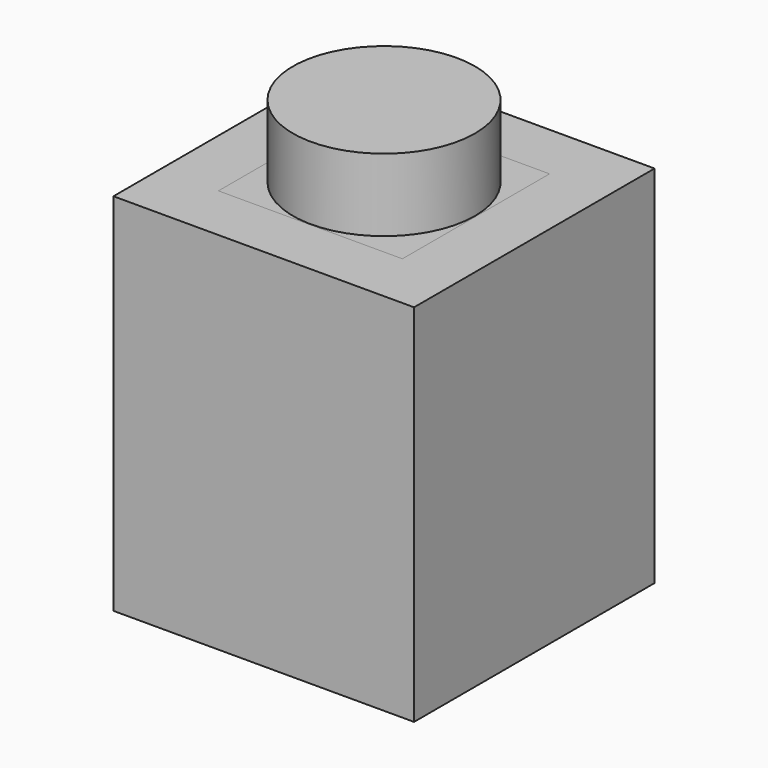
from build123d import *

# Parameters (mm, degrees)
F0_W     = 7.8867
F0_H     = 7.8867
F0_W_2   = 4.826
F0_H_2   = 4.826
F1_DEPTH = 9.5758
F2_START = 8.3058
F0_R     = 2.3876
F2_DEPTH = 1.27
F3_START = 8.3058
F3_DEPTH = 3.175


with BuildPart() as f1:
    # F0 (on Top) → F1 (new body)
    with BuildSketch(Plane.XY):
        Rectangle(F0_W, F0_H)
        Rectangle(F0_W_2, F0_H_2, mode=Mode.SUBTRACT)
    extrude(amount=F1_DEPTH)


with BuildPart() as f2:
    # F0 (on Top) → F2 (new body)
    with BuildSketch(Plane.XY.offset(F2_START)):
        Rectangle(F0_W_2, F0_H_2)
        Circle(F0_R, mode=Mode.SUBTRACT)
    extrude(amount=F2_DEPTH)


with BuildPart() as f3:
    # F0 (on Top) → F3 (new body)
    with BuildSketch(Plane.XY.offset(F3_START)):
        Circle(F0_R)
    extrude(amount=F3_DEPTH)


solid = Compound([f1.part, f2.part, f3.part])
